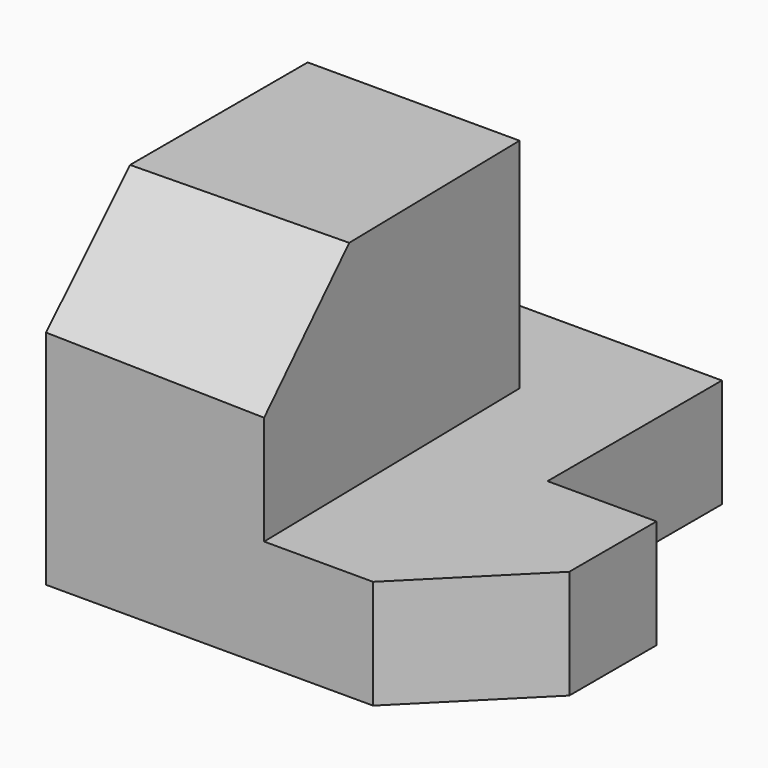
from build123d import *

# Parameters (mm, degrees)
F1_DEPTH = 10
F3_DEPTH = 20
F5_DEPTH = 25


with BuildPart() as f1:
    # F0 (on Top) → F1 (new body)
    with BuildSketch(Plane.XY):
        Polygon((30, 40), (0, 40), (0, 0), (30, 0), (40, 10), (40, 20), (30, 20), align=None)
    extrude(amount=F1_DEPTH)

    # F2 (on face) → F3 (join)
    with BuildSketch(Plane.XY.offset(10)):
        Polygon((19.4369109554, 29.9947150466), (0, 30), (0, 0), (20, 0), align=None)
    extrude(amount=F3_DEPTH)

    # F4 (on face) → F5 (cut)
    with BuildSketch(Plane(origin=(19.9929540162, 0.3753265653, 0), x_dir=(-0.0187696348, 0.9998238349, 0), z_dir=(0.9998238349, 0.0187696348, 0))):
        Polygon((9.6246073036, 30), (-0.3753926964, 30), (-0.3753926964, 20), align=None)
    extrude(amount=-F5_DEPTH, mode=Mode.SUBTRACT)


solid = f1.part
